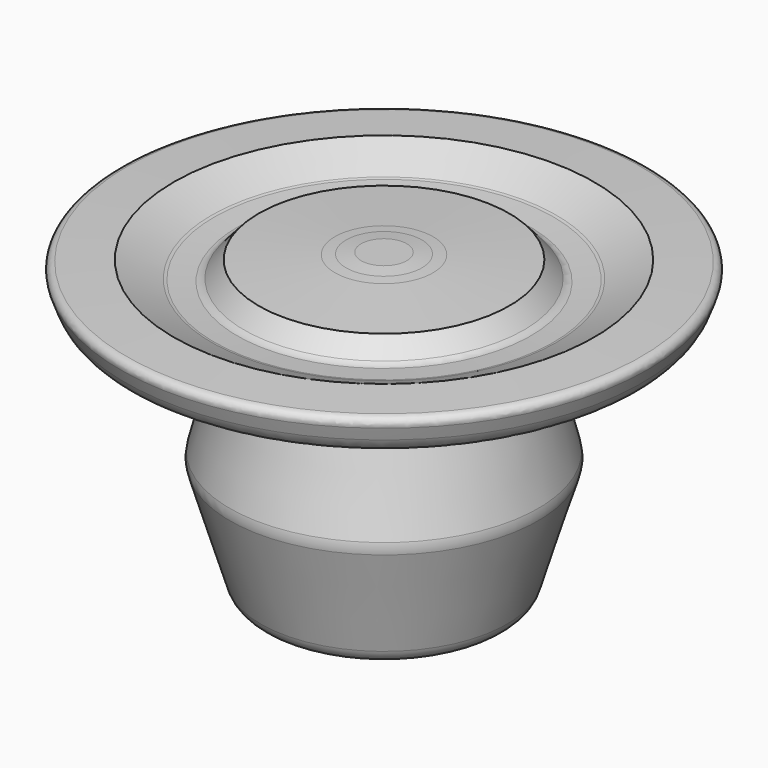
from build123d import *

# Parameters (mm, degrees)
F2_R = 0.564523
F3_R = 2.010865
F4_R = 0.677835
F5_R = 1.640956


with BuildPart() as f1:
    # F0 (on Front) → F1 (revolve)
    with BuildSketch(Plane.XZ):
        Polygon((-9.5375, 0), (0, 0), (0, 24.237502), (-1.8375, 24.237502), (-3.043977, 24.120657), (-3.937501, 24.062501), (-10.062501, 23.712501), (-11.4625, 22.137502), (-13.737501, 22.312501), (-16.887501, 23.712501), (-21.437502, 23.537502), (-20.387501, 20.737499), (-10.2375, 18.637501), (-12.5125, 9.7125), align=None)
    revolve(axis=Axis((0, 0, 12.118751), (0, 0, -1)))

    # F2
    f2_edges = [f1.edges().sort_by_distance(p)[0] for p in [
        (21.437502, 0, 23.537502),
    ]]
    fillet(f2_edges, radius=F2_R)

    # F3
    f3_edges = [f1.edges().sort_by_distance(p)[0] for p in [
        (20.387501, 0, 20.737499),
        (10.2375, 0, 18.637501),
        (-15.3125, 0, 19.6875),
    ]]
    fillet(f3_edges, radius=F3_R)

    # F4
    f4_edges = [f1.edges().sort_by_distance(p)[0] for p in [
        (11.4625, 0, 22.137502),
        (13.737501, 0, 22.312501),
        (-12.6, 0, 22.225002),
    ]]
    fillet(f4_edges, radius=F4_R)

    # F5
    f5_edges = [f1.edges().sort_by_distance(p)[0] for p in [
        (12.5125, 0, 9.7125),
        (9.5375, 0, 0),
        (-11.025, 0, 4.85625),
    ]]
    fillet(f5_edges, radius=F5_R)


solid = f1.part
